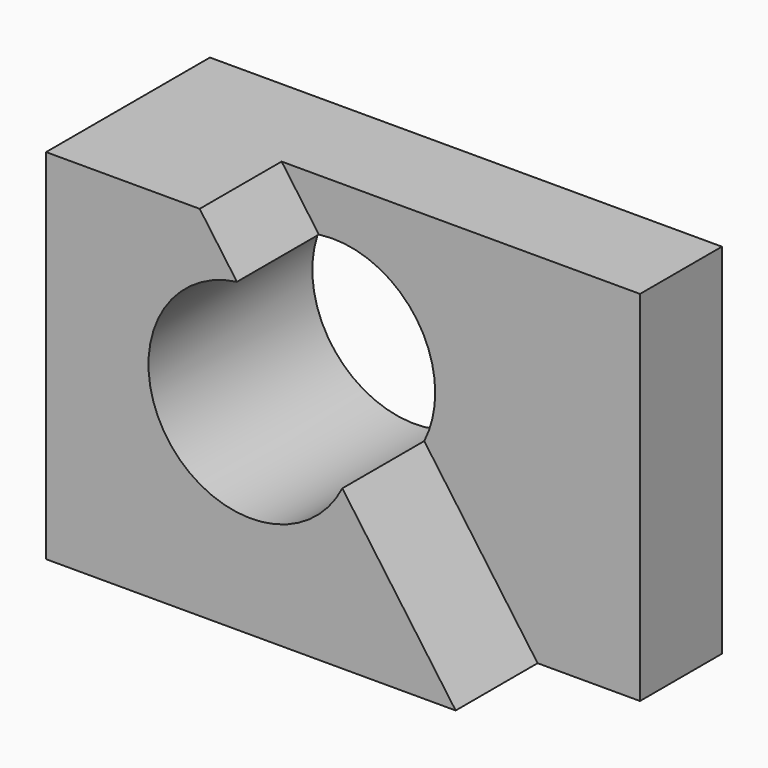
from build123d import *

# Parameters (mm, degrees)
F0_W     = 127
F0_H     = 88.9
F1_DEPTH = 50.8
F3_DEPTH = 25.4
F4_R     = 25.4
F5_DEPTH = 50.8


with BuildPart() as f1:
    # F0 (on Front) → F1 (new body)
    with BuildSketch(Plane.XZ):
        with Locations((63.5, -44.45)):
            Rectangle(F0_W, F0_H)
    extrude(amount=F1_DEPTH)

    # F2 (on face) → F3 (cut)
    with BuildSketch(Plane.XZ.offset(50.8)):
        Polygon((127, 0), (38.1, 0), (101.6, -88.9), (127, -88.9), align=None)
    extrude(amount=-F3_DEPTH, mode=Mode.SUBTRACT)

    # F4 (on face) → F5 (cut)
    with BuildSketch(Plane.XZ.offset(50.8)):
        with Locations((50.8, -38.1)):
            Circle(F4_R)
    extrude(amount=-F5_DEPTH, mode=Mode.SUBTRACT)


solid = f1.part
